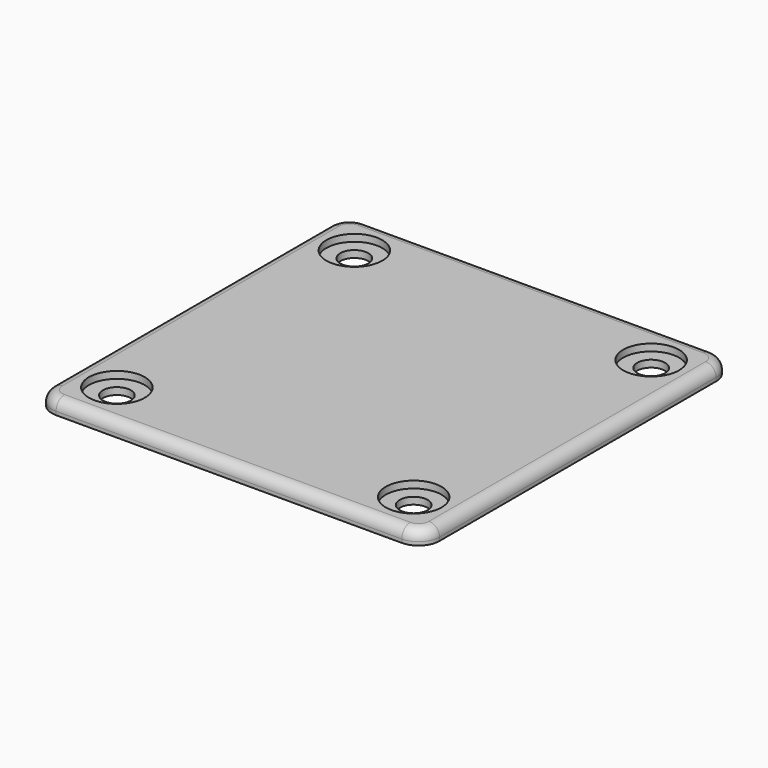
from build123d import *

# Parameters (mm, degrees)
SKETCH_W                   = 55.5
SKETCH_H                   = 55.5
PAD_DEPTH                  = 2
SKETCH001_R                = 2
POCKET_DEPTH               = 159.02966
SKETCH002_R                = 4
POCKET001_DEPTH            = 1
SKETCH001_MIRRORED_2_R     = 2
POCKET_MIRRORED_2_DEPTH    = 159.02966
SKETCH002_MIRRORED_2_R     = 4
POCKET001_MIRRORED_2_DEPTH = 1
FILLET_R                   = 3
FILLET001_R                = 1.5


with BuildPart() as part:
    # Sketch → Pad (new body)
    with BuildSketch(Plane.XY):
        Rectangle(SKETCH_W, SKETCH_H)
    extrude(amount=PAD_DEPTH)

    # Sketch001 (on Face6 of Pad) → Pocket (cut, through all)
    with BuildSketch(Plane.XY.offset(2)):
        with Locations((21.25, 21.25)):
            Circle(SKETCH001_R)
    pocket = extrude(amount=-POCKET_DEPTH, mode=Mode.SUBTRACT)

    # Sketch002 (on Face5 of Pocket) → Pocket001 (cut)
    with BuildSketch(Plane.XY.offset(2)):
        with Locations((21.25, 21.25)):
            Circle(SKETCH002_R)
    pocket001 = extrude(amount=-POCKET001_DEPTH, mode=Mode.SUBTRACT)

    # Sketch001 Mirrored 2 → Pocket Mirrored 2 (cut, through all)
    with BuildSketch(Plane(origin=(0, 0, 2), x_dir=(-1, 0, 0), z_dir=(0, 0, -1))):
        with Locations((21.25, 21.25)):
            Circle(SKETCH001_MIRRORED_2_R)
    pocket_mirrored_2 = extrude(amount=POCKET_MIRRORED_2_DEPTH, mode=Mode.SUBTRACT)

    # Sketch002 Mirrored 2 → Pocket001 Mirrored 2 (cut)
    with BuildSketch(Plane(origin=(0, 0, 2), x_dir=(-1, 0, 0), z_dir=(0, 0, -1))):
        with Locations((21.25, 21.25)):
            Circle(SKETCH002_MIRRORED_2_R)
    pocket001_mirrored_2 = extrude(amount=POCKET001_MIRRORED_2_DEPTH, mode=Mode.SUBTRACT)

    # Mirrored001: Pocket, Pocket001, Pocket Mirrored 2, Pocket001 Mirrored 2 across Sketch001 H_Axis
    add(pocket.mirror(Plane(origin=(0, 0, 2), x_dir=(0, 0, 1), z_dir=(0, 1, 0))), mode=Mode.SUBTRACT)
    add(pocket001.mirror(Plane(origin=(0, 0, 2), x_dir=(0, 0, 1), z_dir=(0, 1, 0))), mode=Mode.SUBTRACT)
    add(pocket_mirrored_2.mirror(Plane(origin=(0, 0, 2), x_dir=(0, 0, 1), z_dir=(0, 1, 0))), mode=Mode.SUBTRACT)
    add(pocket001_mirrored_2.mirror(Plane(origin=(0, 0, 2), x_dir=(0, 0, 1), z_dir=(0, 1, 0))), mode=Mode.SUBTRACT)

    # Fillet
    fillet_edges = [part.edges().sort_by_distance(p)[0] for p in [
        (-27.75, -27.75, 1),
        (27.75, -27.75, 1),
        (27.75, 27.75, 1),
        (-27.75, 27.75, 1),
    ]]
    fillet(fillet_edges, radius=FILLET_R)

    # Fillet001
    fillet001_edges = [part.edges().sort_by_distance(p)[0] for p in [
        (0, -27.75, 2),
    ]]
    fillet(fillet001_edges, radius=FILLET001_R)


solid = part.part
